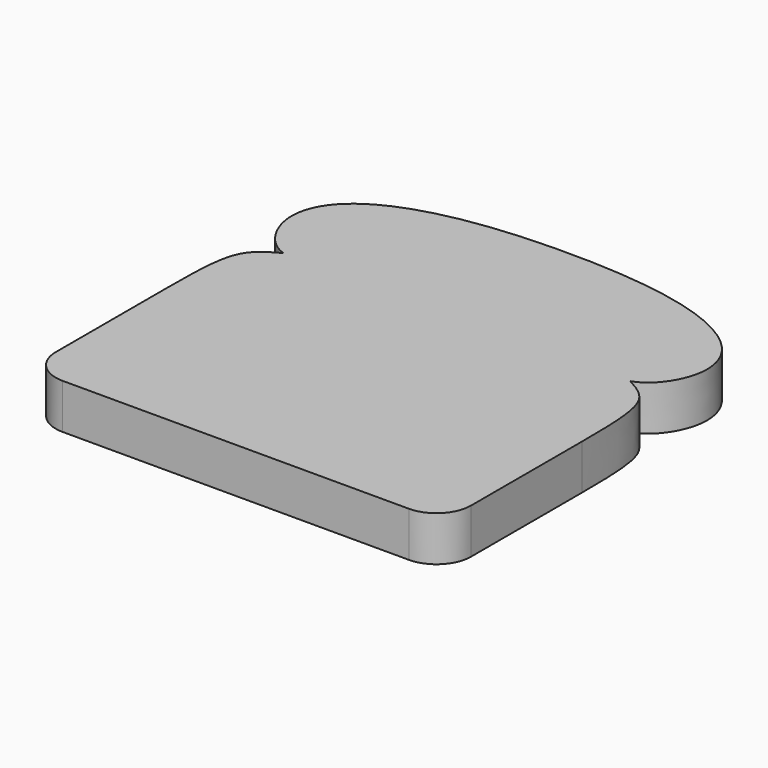
from build123d import *

# Parameters (mm, degrees)
F1_DEPTH = 13
F3_DEPTH = 25


with BuildPart() as f1:
    # F0 (on Top) → F1 (new body)
    with BuildSketch(Plane.XY):
        Polygon((60, 81.0702352943), (0, 81.0702352943), (-60, 81.0702352943), (-60, -38.9297647057), (0, -38.9297647057), (60, -38.9297647057), align=None)
    extrude(amount=F1_DEPTH)

    # F2 (on face) → F3 (cut)
    with BuildSketch(Plane.XY.offset(13)):
        Polygon((-101.7926856875, -77.1939546643), (0, -77.1939546643), (101.7926856875, -77.1939546643), (101.7926856875, 81.0702352943), (101.7926856875, 114.1239181161), (-101.7926856875, 114.1239181161), (-101.7926856875, 81.0702352943), align=None)
        with BuildLine():
            add(Edge.make_bspline(
                [(0, 81.0702352943), (-42.8028441966, 81.0702352943), (-60, 69.7800374747), (-60, 56.2431253493)],
                knots=[0, 0, 0, 0, 64.9336999425, 64.9336999425, 64.9336999425, 64.9336999425], degree=3))
            add(Edge.make_bspline(
                [(0, 81.0702352943), (42.8028441966, 81.0702352943), (60, 69.7800374747), (60, 56.2431253493)],
                knots=[0, 0, 0, 0, 64.9336999425, 64.9336999425, 64.9336999425, 64.9336999425], degree=3))
            add(Edge.make_bspline(
                [(60, 56.2431253493), (60, 49.7238418059), (55.5295944214, 42.6254570484), (50.0710271299, 40.9519709647)],
                knots=[0, 0, 0, 0, 18.2319473636, 18.2319473636, 18.2319473636, 18.2319473636], degree=3))
            add(Edge.make_bspline(
                [(50.0710271299, 40.9519709647), (58.6315952241, 36.3048054278), (60, 34.0977534652), (60, 11.0702352943)],
                knots=[0, 0, 0, 0, 31.4881347325, 31.4881347325, 31.4881347325, 31.4881347325], degree=3))
            Line((60, 11.0702352943), (60, -28.9297647057))
            ThreePointArc((60, -28.9297647057), (57.0710678119, -36.0008325176), (50, -38.9297647057))
            Line((50, -38.9297647057), (0, -38.9297647057))
            Line((0, -38.9297647057), (-50, -38.9297647057))
            ThreePointArc((-50, -38.9297647057), (-57.0710678119, -36.0008325176), (-60, -28.9297647057))
            Line((-60, -28.9297647057), (-60, 11.0702352943))
            add(Edge.make_bspline(
                [(-50.0710271299, 40.9519709647), (-58.6315952241, 36.3048054278), (-60, 34.0977534652), (-60, 11.0702352943)],
                knots=[0, 0, 0, 0, 31.4881347325, 31.4881347325, 31.4881347325, 31.4881347325], degree=3))
            add(Edge.make_bspline(
                [(-60, 56.2431253493), (-60, 49.7238418059), (-55.5295944214, 42.6254570484), (-50.0710271299, 40.9519709647)],
                knots=[0, 0, 0, 0, 18.2319473636, 18.2319473636, 18.2319473636, 18.2319473636], degree=3))
        make_face(mode=Mode.SUBTRACT)
    extrude(amount=-F3_DEPTH, mode=Mode.SUBTRACT)


solid = f1.part
